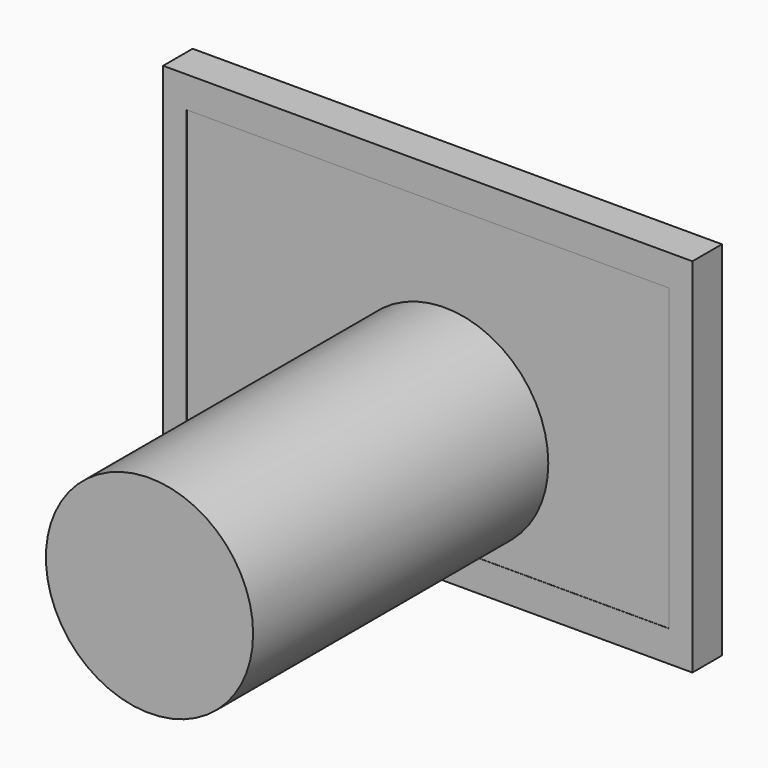
from build123d import *

# Parameters (mm, degrees)
F0_W     = 364.33125
F0_H     = 249.2375
F1_DEPTH = 25.4
F2_W     = 331.7875
F2_H     = 206.375
F3_DEPTH = 0.127
F4_R     = 71.318712
F5_DEPTH = 254


with BuildPart() as f1:
    # F0 (on Front) → F1 (new body)
    with BuildSketch(Plane.XZ):
        Rectangle(F0_W, F0_H)
    extrude(amount=F1_DEPTH)

    # F2 (on face) → F3 (cut)
    with BuildSketch(Plane.XZ.offset(25.4)):
        Rectangle(F2_W, F2_H)
    extrude(amount=-F3_DEPTH, mode=Mode.SUBTRACT)

    # F4 (on face) → F5 (join)
    with BuildSketch(Plane.XZ.offset(25.273)):
        with Locations((11.564023, -30.23188)):
            Circle(F4_R)
    extrude(amount=F5_DEPTH)


solid = f1.part
